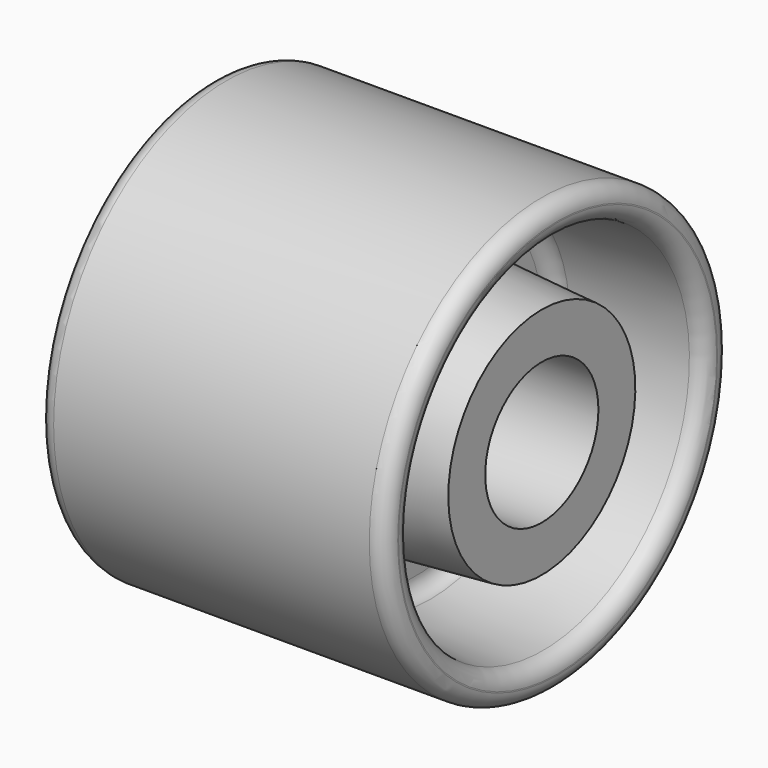
from build123d import *

# Parameters (mm, degrees)
F0_R      = 41
F0_R_2    = 13.45
F6_DEPTH  = 33
F8_R      = 3
F10_R     = 23.794194
F11_DEPTH = 3.001


with BuildPart() as f6:
    # F0 (on Right) → F6 (new body)
    with BuildSketch(Plane.YZ):
        Circle(F0_R)
        Circle(F0_R_2, mode=Mode.SUBTRACT)
    extrude(amount=F6_DEPTH)

    # F5 (on Front) → F7 (revolve, cut)
    with BuildSketch(Plane.XZ):
        Polygon((33, 22), (33, 35), (6, 33), (6, 24), align=None)
    revolve(axis=Axis((15.496012, 0, 0), (-1, 0, 0)), mode=Mode.SUBTRACT)

    # F8
    f8_edges = [f6.edges().sort_by_distance(p)[0] for p in [
        (33, 0, -35),
        (33, -41, 0),
        (6, 0, -33),
        (6, 0, -24),
    ]]
    fillet(f8_edges, radius=F8_R)

    # F10 (on offset) → F11 (cut, through all)
    with BuildSketch(Plane.YZ.offset(30)):
        Circle(F10_R)
    extrude(amount=F11_DEPTH, mode=Mode.SUBTRACT)

    # F12: F6 across plane


with BuildPart() as f6_1:
    add(f6.part)
    add(f6.part.mirror(Plane.YZ))


solid = f6_1.part
